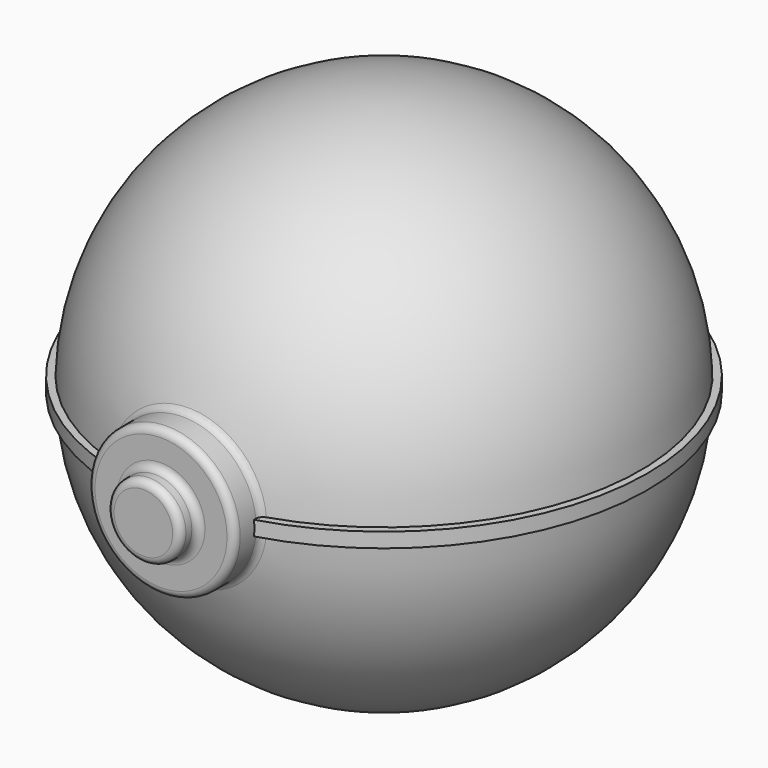
from build123d import *

# Parameters (mm, degrees)
F2_R     = 10
F3_DEPTH = 38
F5_R     = 5
F6_DEPTH = 3
F7_R     = 1


with BuildPart() as f1:
    # F0 (on Front) → F1 (revolve)
    with BuildSketch(Plane.XZ):
        with BuildLine():
            Line((0, 1), (0, 35))
            ThreePointArc((0, 35), (-24.3926218353, 25.099800796), (-34.9857113691, 1))
            Line((-34.9857113691, 1), (-35.9857113691, 1))
            Line((-35.9857113691, 1), (-35.9857113691, -1))
            Line((-35.9857113691, -1), (-34.9857113691, -1))
            ThreePointArc((-34.9857113691, -1), (-24.3926218353, -25.099800796), (0, -35))
            Line((0, -35), (0, -1))
            Line((0, -1), (0, 0))
            Line((0, 0), (0, 1))
        make_face()
    revolve(axis=Axis((0, 0, 17.5), (0, 0, -1)))

    # F2 (on Front) → F3 (join)
    with BuildSketch(Plane.XZ):
        Circle(F2_R)
    extrude(amount=F3_DEPTH)

    # F5 (on face) → F6 (join)
    with BuildSketch(Plane.XZ.offset(38)):
        Circle(F5_R)
    extrude(amount=F6_DEPTH)

    # F7
    f7_edges = [f1.edges().sort_by_distance(p)[0] for p in [
        (-5, -41, 0),
        (-5, -38, 0),
        (-10, -38, 0),
        (0, -33.54102, 10),
        (0, -33.54102, -10),
    ]]
    fillet(f7_edges, radius=F7_R)


solid = f1.part
